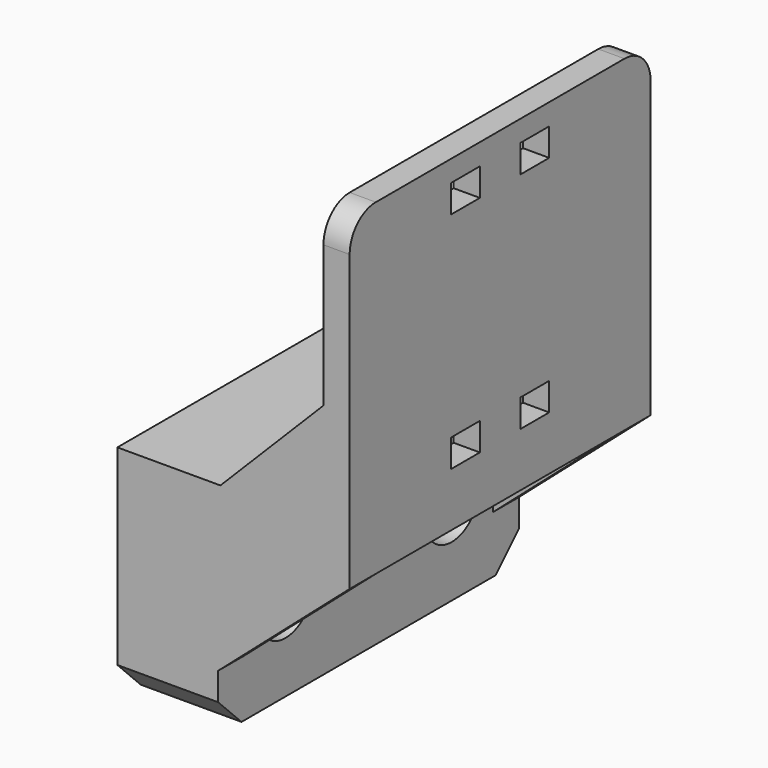
from build123d import *

# Parameters (mm, degrees)
F0_R     = 2.1
F1_DEPTH = 6.16
F2_W     = 23
F2_H     = 3
F3_DEPTH = 14.2
F4_W     = 23
F4_H     = 20
F4_W_2   = 2.2
F4_H_2   = 1.7
F5_DEPTH = 1.6
F8_DEPTH = 2
F12_R    = 2


with BuildPart() as f1:
    # F0 (on Right) → F1 (new body)
    with BuildSketch(Plane.YZ):
        Polygon((-9.7124977037, -5.25), (9.7124977037, -5.25), (11.5, -3.4624977037), (11.5, 3.4624977037), (11.5, 5.25), (9.7124977037, 5.25), (-9.7124977037, 5.25), (-11.5, 5.25), (-11.5, 3.4624977037), (-11.5, -3.4624977037), align=None)
        with Locations((-6.35, 0)):
            Circle(F0_R, mode=Mode.SUBTRACT)
        with Locations((6.35, 0)):
            Circle(F0_R, mode=Mode.SUBTRACT)
    extrude(amount=F1_DEPTH)

    # F2 (on face) → F3 (join)
    with BuildSketch(Plane(origin=(0, 0, 0), x_dir=(0, -1, 0), z_dir=(-1, 0, 0))):
        with Locations((0, 6.75)):
            Rectangle(F2_W, F2_H)
    extrude(amount=-F3_DEPTH)

    # F4 (on face) → F5 (join)
    with BuildSketch(Plane.YZ.offset(14.2)):
        with Locations((0, 15.25)):
            Rectangle(F4_W, F4_H)
        with Locations((-2.65, 9.4)):
            Rectangle(F4_W_2, F4_H_2, mode=Mode.SUBTRACT)
        with Locations((2.65, 9.4)):
            Rectangle(F4_W_2, F4_H_2, mode=Mode.SUBTRACT)
        with Locations((-2.65, 23.1)):
            Rectangle(F4_W_2, F4_H_2, mode=Mode.SUBTRACT)
        with Locations((2.65, 23.1)):
            Rectangle(F4_W_2, F4_H_2, mode=Mode.SUBTRACT)
    extrude(amount=-F5_DEPTH)

    # F6: union 

    # F7 (on face) → F8 (join)
    with BuildSketch(Plane(origin=(0, 11.5, 0), x_dir=(-1, 0, 0), z_dir=(0, 1, 0))):
        Polygon((-6.3, 8.25), (-12.6, 14.6002341062), (-12.6, 8.25), align=None)
        Polygon((-6.16, 5.25), (-14.2, 5.25), (-6.16, -1.7691504909), align=None)
    extrude(amount=-F8_DEPTH)

    # F10: F1 across plane


with BuildPart() as f1_1:
    add(f1.part)
    add(f1.part.mirror(Plane.XZ))

    # F11: F1 across plane


with BuildPart() as f1_2:
    add(f1_1.part)
    add(f1_1.part.mirror(Plane.XZ))

    # F12
    f12_edges = [f1_2.edges().sort_by_distance(p)[0] for p in [
        (13.4, 11.5, 25.25),
        (13.4, -11.5, 25.25),
    ]]
    fillet(f12_edges, radius=F12_R)


solid = f1_2.part
